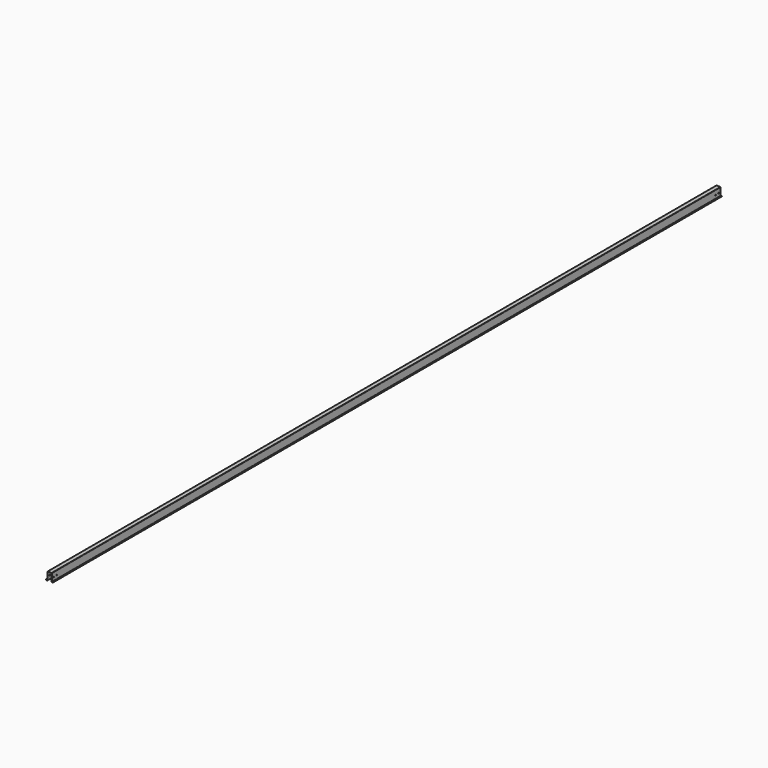
from build123d import *

# Parameters (mm, degrees)
F1_DEPTH = 11380
F3_D     = 13.2


with BuildPart() as f1:
    # F0 (on Front) → F1 (new body)
    with BuildSketch(Plane.XZ):
        with BuildLine():
            Line((0, -3), (0, 0))
            Line((0, 0), (-2, 0))
            Line((-2, 0), (-2, -5))
            ThreePointArc((-2, -5), (-0.5355339059, -8.5355339059), (3, -10))
            Line((3, -10), (13, -10))
            ThreePointArc((13, -10), (16.5355339059, -8.5355339059), (18, -5))
            Line((18, -5), (18, 93))
            ThreePointArc((18, 93), (19.4644660941, 96.5355339059), (23, 98))
            Line((23, 98), (69, 98))
            ThreePointArc((69, 98), (72.5355339059, 96.5355339059), (74, 93))
            Line((74, 93), (74, -5))
            ThreePointArc((74, -5), (75.4644660941, -8.5355339059), (79, -10))
            Line((79, -10), (89, -10))
            ThreePointArc((89, -10), (92.5355339059, -8.5355339059), (94, -5))
            Line((94, -5), (94, 0))
            Line((94, 0), (92, 0))
            Line((92, 0), (92, -3))
            ThreePointArc((92, -3), (90.5355339059, -6.5355339059), (87, -8))
            Line((87, -8), (81, -8))
            ThreePointArc((81, -8), (77.4644660941, -6.5355339059), (76, -3))
            Line((76, -3), (76, 95))
            ThreePointArc((76, 95), (74.5355339059, 98.5355339059), (71, 100))
            Line((71, 100), (21, 100))
            ThreePointArc((21, 100), (17.4644660941, 98.5355339059), (16, 95))
            Line((16, 95), (16, -3))
            ThreePointArc((16, -3), (14.5355339059, -6.5355339059), (11, -8))
            Line((11, -8), (5, -8))
            ThreePointArc((5, -8), (1.4644660941, -6.5355339059), (0, -3))
        make_face()
    extrude(amount=F1_DEPTH)

    # F3 (through all)
    with Locations(Plane.YZ.offset(76)):
        with Locations((-11345, 40), (-11295, 40), (-85, 40), (-35, 40)):
            Hole(F3_D / 2)


solid = f1.part
